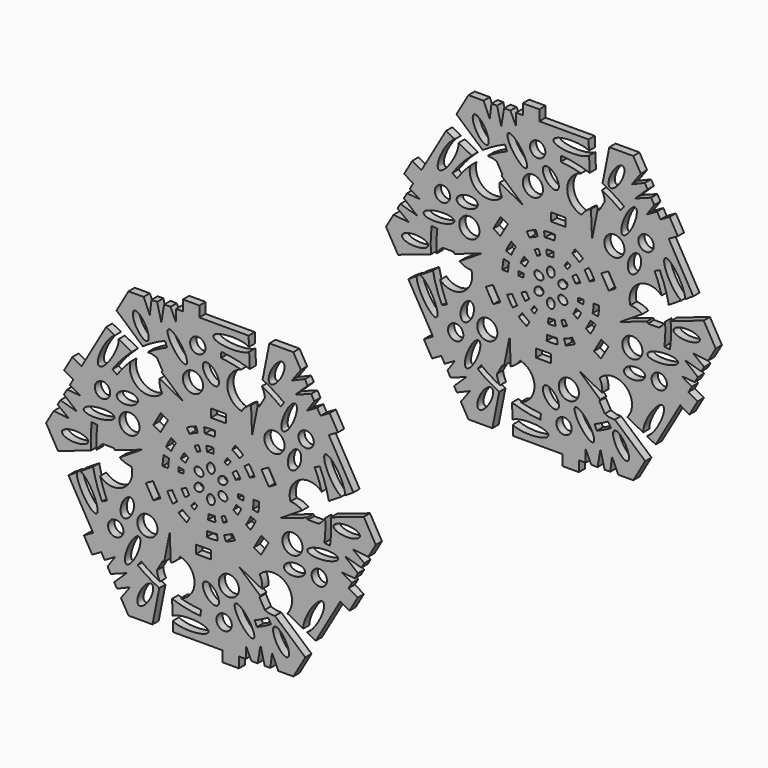
from build123d import *

# Parameters (mm, degrees)
F0_W      = 5.3208619356
F0_H      = 2.956032753
F1_DEPTH  = 2.794
F2_R      = 3.6109321867
F3_DEPTH  = 25.4
F5_DEPTH  = 25.4
F7_DEPTH  = 25.4
F8_R      = 2.7543769247
F9_DEPTH  = 25.4
F10_SCALE = 0.5


with BuildPart() as f1:
    # F0 (on Front) → F1 (new body)
    with BuildSketch(Plane.XZ):
        with BuildLine():
            Line((-21.9722185302, 0), (0, 0))
            Line((0, 0), (-10.9861092651, 19.0284994247))
            ThreePointArc((-10.9861092651, 19.0284994247), (-14.7571293586, 20.0353904368), (-17.4869534781, 22.8251005173))
            ThreePointArc((-17.4869534781, 22.8251005173), (-29.0071142769, 26.3226212701), (-19.3417309339, 33.5008606838))
            Line((-19.3417309339, 33.5008606838), (-29.5603442937, 51.2000182059))
            Line((-29.5603442937, 51.2000182059), (-46.409741044, 22.0160069575))
            Line((-46.409741044, 22.0160069575), (-49.6852455032, 23.9071203387))
            Line((-49.6852455032, 23.9071203387), (-52.6412801189, 18.7871181955))
            Line((-52.6412801189, 18.7871181955), (-49.3657756597, 16.8960048143))
            Line((-49.3657756597, 16.8960048143), (-59.1206885874, 0))
            Line((-59.1206885874, 0), (-38.6834618678, 0))
            Line((-38.6834618678, 0), (-34.8023260759, 0))
            ThreePointArc((-34.8023260759, 0), (-32.1514174695, -2.7003311517), (-28.5105936309, -3.7315956881))
            ThreePointArc((-28.5105936309, -3.7315956881), (-29.5603758279, -1.6204671144), (-31.2729741016, 0))
            Line((-31.2729741016, 0), (-21.9722185302, 0))
        make_face()
        Polygon((-17.9902433753, 16.5306739972), (-15.4302439168, 15.0526576207), (-18.0906748846, 10.4446560144), (-20.6506743431, 11.9226723909), align=None, mode=Mode.SUBTRACT)
        with BuildLine():
            Line((21.9722185302, 0), (0, 0))
            Line((0, 0), (10.9861092651, -19.0284994247))
            ThreePointArc((10.9861092651, -19.0284994247), (14.7571293586, -20.0353904368), (17.4869534781, -22.8251005173))
            ThreePointArc((17.4869534781, -22.8251005173), (29.0071142769, -26.3226212701), (19.3417309339, -33.5008606838))
            Line((19.3417309339, -33.5008606838), (29.5603442937, -51.2000182059))
            Line((29.5603442937, -51.2000182059), (46.409741044, -22.0160069575))
            Line((46.409741044, -22.0160069575), (49.6852455032, -23.9071203387))
            Line((49.6852455032, -23.9071203387), (52.6412801189, -18.7871181955))
            Line((52.6412801189, -18.7871181955), (49.3657756597, -16.8960048143))
            Line((49.3657756597, -16.8960048143), (59.1206885874, 0))
            Line((59.1206885874, 0), (38.6834618678, 0))
            Line((38.6834618678, 0), (34.8023260759, 0))
            ThreePointArc((34.8023260759, 0), (32.1514174695, 2.7003311517), (28.5105936309, 3.7315956881))
            ThreePointArc((28.5105936309, 3.7315956881), (29.5603758279, 1.6204671144), (31.2729741016, 0))
            Line((31.2729741016, 0), (21.9722185302, 0))
        make_face()
        Polygon((17.9902433753, -16.5306739972), (15.4302439168, -15.0526576207), (18.0906748846, -10.4446560144), (20.6506743431, -11.9226723909), align=None, mode=Mode.SUBTRACT)
        with BuildLine():
            Line((10.9861092651, -19.0284994247), (0, 0))
            Line((0, 0), (-10.9861092651, -19.0284994247))
            ThreePointArc((-10.9861092651, -19.0284994247), (-9.9725924137, -22.7977441299), (-11.0236401529, -26.5566962054))
            ThreePointArc((-11.0236401529, -26.5566962054), (-8.2925015757, -38.2822084894), (-19.3417309339, -33.5008606838))
            Line((-19.3417309339, -33.5008606838), (-29.5603442937, -51.2000182059))
            Line((-29.5603442937, -51.2000182059), (4.1384492069, -51.2000182059))
            Line((4.1384492069, -51.2000182059), (4.1384492069, -54.9822449684))
            Line((4.1384492069, -54.9822449684), (10.0505184382, -54.9822449684))
            Line((10.0505184382, -54.9822449684), (10.0505184382, -51.2000182059))
            Line((10.0505184382, -51.2000182059), (29.5603442937, -51.2000182059))
            Line((29.5603442937, -51.2000182059), (19.3417309339, -33.5008606838))
            Line((19.3417309339, -33.5008606838), (17.4011630379, -30.1396984925))
            ThreePointArc((17.4011630379, -30.1396984925), (18.4142641108, -26.4937787205), (17.4869534781, -22.8251005173))
            ThreePointArc((17.4869534781, -22.8251005173), (16.183553601, -24.7898028552), (15.6364870508, -27.0831900239))
            Line((15.6364870508, -27.0831900239), (10.9861092651, -19.0284994247))
        make_face()
        with Locations((-2.6604309678, -22.3673284054)):
            Rectangle(F0_W, F0_H, mode=Mode.SUBTRACT)
        with BuildLine():
            Line((10.9861092651, 19.0284994247), (0, 0))
            Line((0, 0), (21.9722185302, 0))
            ThreePointArc((21.9722185302, 0), (24.7297217724, 2.7623536931), (28.5105936309, 3.7315956881))
            ThreePointArc((28.5105936309, 3.7315956881), (37.2996158526, 11.9595872192), (38.6834618678, 0))
            Line((38.6834618678, 0), (59.1206885874, 0))
            Line((59.1206885874, 0), (42.2712918371, 29.1840112485))
            Line((42.2712918371, 29.1840112485), (45.5467962963, 31.0751246297))
            Line((45.5467962963, 31.0751246297), (42.5907616806, 36.1951267729))
            Line((42.5907616806, 36.1951267729), (39.3152572215, 34.3040133917))
            Line((39.3152572215, 34.3040133917), (29.5603442937, 51.2000182059))
            Line((29.5603442937, 51.2000182059), (19.3417309339, 33.5008606838))
            Line((19.3417309339, 33.5008606838), (17.4011630379, 30.1396984925))
            ThreePointArc((17.4011630379, 30.1396984925), (13.7371533588, 29.1941098721), (11.0236401529, 26.5566962054))
            ThreePointArc((11.0236401529, 26.5566962054), (13.3768222269, 26.4102699696), (15.6364870508, 27.0831900239))
            Line((15.6364870508, 27.0831900239), (10.9861092651, 19.0284994247))
        make_face()
        Polygon((23.3111053109, 7.3146707847), (20.7511058524, 5.8366544082), (18.0906748846, 10.4446560144), (20.6506743431, 11.9226723909), align=None, mode=Mode.SUBTRACT)
        with BuildLine():
            Line((-10.9861092651, 19.0284994247), (0, 0))
            Line((0, 0), (10.9861092651, 19.0284994247))
            ThreePointArc((10.9861092651, 19.0284994247), (9.9725924137, 22.7977441299), (11.0236401529, 26.5566962054))
            ThreePointArc((11.0236401529, 26.5566962054), (8.2925015757, 38.2822084894), (19.3417309339, 33.5008606838))
            Line((19.3417309339, 33.5008606838), (29.5603442937, 51.2000182059))
            Line((29.5603442937, 51.2000182059), (-4.1384492069, 51.2000182059))
            Line((-4.1384492069, 51.2000182059), (-4.1384492069, 54.9822449684))
            Line((-4.1384492069, 54.9822449684), (-10.0505184382, 54.9822449684))
            Line((-10.0505184382, 54.9822449684), (-10.0505184382, 51.2000182059))
            Line((-10.0505184382, 51.2000182059), (-29.5603442937, 51.2000182059))
            Line((-29.5603442937, 51.2000182059), (-19.3417309339, 33.5008606838))
            Line((-19.3417309339, 33.5008606838), (-17.4011630379, 30.1396984925))
            ThreePointArc((-17.4011630379, 30.1396984925), (-18.4142641108, 26.4937787205), (-17.4869534781, 22.8251005173))
            ThreePointArc((-17.4869534781, 22.8251005173), (-16.183553601, 24.7898028552), (-15.6364870508, 27.0831900239))
            Line((-15.6364870508, 27.0831900239), (-10.9861092651, 19.0284994247))
        make_face()
        with Locations((2.6604309678, 22.3673284054)):
            Rectangle(F0_W, F0_H, mode=Mode.SUBTRACT)
        with BuildLine():
            ThreePointArc((-17.4869534781, 22.8251005173), (-14.7571293586, 20.0353904368), (-10.9861092651, 19.0284994247))
            Line((-10.9861092651, 19.0284994247), (-15.6364870508, 27.0831900239))
            ThreePointArc((-15.6364870508, 27.0831900239), (-16.183553601, 24.7898028552), (-17.4869534781, 22.8251005173))
        make_face()
        with BuildLine():
            ThreePointArc((11.0236401529, 26.5566962054), (9.9725924137, 22.7977441299), (10.9861092651, 19.0284994247))
            Line((10.9861092651, 19.0284994247), (15.6364870508, 27.0831900239))
            ThreePointArc((15.6364870508, 27.0831900239), (13.3768222269, 26.4102699696), (11.0236401529, 26.5566962054))
        make_face()
        with BuildLine():
            ThreePointArc((-11.0236401529, -26.5566962054), (-9.9725924137, -22.7977441299), (-10.9861092651, -19.0284994247))
            Line((-10.9861092651, -19.0284994247), (-15.6364870508, -27.0831900239))
            ThreePointArc((-15.6364870508, -27.0831900239), (-13.3768222269, -26.4102699696), (-11.0236401529, -26.5566962054))
        make_face()
        with BuildLine():
            ThreePointArc((17.4869534781, -22.8251005173), (14.7571293586, -20.0353904368), (10.9861092651, -19.0284994247))
            Line((10.9861092651, -19.0284994247), (15.6364870508, -27.0831900239))
            ThreePointArc((15.6364870508, -27.0831900239), (16.183553601, -24.7898028552), (17.4869534781, -22.8251005173))
        make_face()
        with BuildLine():
            ThreePointArc((28.5105936309, 3.7315956881), (24.7297217724, 2.7623536931), (21.9722185302, 0))
            Line((21.9722185302, 0), (31.2729741016, 0))
            ThreePointArc((31.2729741016, 0), (29.5603758279, 1.6204671144), (28.5105936309, 3.7315956881))
        make_face()
        with BuildLine():
            ThreePointArc((-28.5105936309, -3.7315956881), (-24.7297217724, -2.7623536931), (-21.9722185302, 0))
            Line((-21.9722185302, 0), (-31.2729741016, 0))
            ThreePointArc((-31.2729741016, 0), (-29.5603758279, -1.6204671144), (-28.5105936309, -3.7315956881))
        make_face()
        with BuildLine():
            Line((-10.9861092651, -19.0284994247), (0, 0))
            Line((0, 0), (-21.9722185302, 0))
            ThreePointArc((-21.9722185302, 0), (-24.7297217724, -2.7623536931), (-28.5105936309, -3.7315956881))
            ThreePointArc((-28.5105936309, -3.7315956881), (-37.2996158526, -11.9595872192), (-38.6834618678, 0))
            Line((-38.6834618678, 0), (-59.1206885874, 0))
            Line((-59.1206885874, 0), (-42.2712918371, -29.1840112485))
            Line((-42.2712918371, -29.1840112485), (-45.5467962963, -31.0751246297))
            Line((-45.5467962963, -31.0751246297), (-42.5907616806, -36.1951267729))
            Line((-42.5907616806, -36.1951267729), (-39.3152572215, -34.3040133917))
            Line((-39.3152572215, -34.3040133917), (-29.5603442937, -51.2000182059))
            Line((-29.5603442937, -51.2000182059), (-19.3417309339, -33.5008606838))
            Line((-19.3417309339, -33.5008606838), (-17.4011630379, -30.1396984925))
            ThreePointArc((-17.4011630379, -30.1396984925), (-13.7371533588, -29.1941098721), (-11.0236401529, -26.5566962054))
            ThreePointArc((-11.0236401529, -26.5566962054), (-13.3768222269, -26.4102699696), (-15.6364870508, -27.0831900239))
            Line((-15.6364870508, -27.0831900239), (-10.9861092651, -19.0284994247))
        make_face()
        Polygon((-23.3111053109, -7.3146707847), (-20.7511058524, -5.8366544082), (-18.0906748846, -10.4446560144), (-20.6506743431, -11.9226723909), align=None, mode=Mode.SUBTRACT)
    extrude(amount=F1_DEPTH)

    # F2 (on face) → F3 (cut)
    with BuildSketch(Plane.XZ.offset(2.794)):
        with Locations((-22.7895863354, -20.593367517)):
            Circle(F2_R)
        with Locations((6.4395862515, -30.0330444667)):
            Circle(F2_R)
        with Locations((29.2291725869, -9.4396769497)):
            Circle(F2_R)
        with Locations((22.7895863354, 20.593367517)):
            Circle(F2_R)
        with Locations((-6.4395862515, 30.0330444667)):
            Circle(F2_R)
        with Locations((-29.2291725869, 9.4396769497)):
            Circle(F2_R)
    extrude(amount=-F3_DEPTH, mode=Mode.SUBTRACT)

    # F4 (on face) → F5 (cut)
    with BuildSketch(Plane.XZ.offset(2.794)):
        Polygon((-24.785451591, 2.7467869222), (-60.0905120373, -9.2294868082), (-55.8829978108, -16.9253777713), align=None)
        Polygon((-34.4135321479, -34.3040133917), (-42.5907616806, -39.0251390636), (-42.2712918371, -49.9183535576), (-34.8023260759, -49.9183535576), (-29.0216468275, -42.0778691769), (-38.6834618678, -46.1534336209), (-30.2300732583, -37.989269942), (-39.3152572215, -41.3837209344), align=None)
        Polygon((17.7846362119, -45.174646371), (16.1817250216, -54.7398719773), (12.501380975, -46.9549997699), (12.501380975, -56.3972511138), (22.0949163774, -61.5671893605), (25.829399258, -55.0988752713), (21.9296802306, -46.1724180007), (20.6283150537, -56.5775774943), align=None)
        Polygon((-22.0522859789, -56.6546533548), (-13.2836917869, -56.8587846295), (-14.7715130489, -20.091437261), align=None)
        Polygon((48.0147094702, -7.1853764289), (55.496982243, -13.3561510429), (46.9149131229, -12.6509863782), (55.0921426556, -17.3721120502), (64.3662082145, -11.6488358029), (60.6317253339, -5.1805217137), (50.951327058, -4.0945488238), (59.3117769215, -10.4241438733), align=None)
        Polygon((38.0382260584, -47.4251665466), (42.599306024, -39.9334068582), (10.0139385421, -22.8382241832), align=None)
        Polygon((30.2300732583, 37.989269942), (39.3152572215, 41.3837209344), (34.4135321479, 34.3040133917), (42.5907616806, 39.0251390636), (42.2712918371, 49.9183535576), (34.8023260759, 49.9183535576), (29.0216468275, 42.0778691769), (38.6834618678, 46.1534336209), align=None)
        Polygon((60.0905120373, 9.2294868082), (55.8829978108, 16.9253777713), (24.785451591, -2.7467869222), align=None)
        Polygon((-17.7846362119, 45.174646371), (-16.1817250216, 54.7398719773), (-12.501380975, 46.9549997699), (-12.501380975, 56.3972511138), (-22.0949163774, 61.5671893605), (-25.829399258, 55.0988752713), (-21.9296802306, 46.1724180007), (-20.6283150537, 56.5775774943), align=None)
        Polygon((22.0522859789, 56.6546533548), (13.2836917869, 56.8587846294), (14.7715130489, 20.091437261), align=None)
        Polygon((-48.0147094702, 7.1853764289), (-55.496982243, 13.3561510429), (-46.9149131229, 12.6509863782), (-55.0921426556, 17.3721120502), (-64.3662082145, 11.6488358029), (-60.6317253339, 5.1805217137), (-50.951327058, 4.0945488238), (-59.3117769215, 10.4241438733), align=None)
        Polygon((-38.0382260584, 47.4251665466), (-42.599306024, 39.9334068582), (-10.0139385421, 22.8382241832), align=None)
    extrude(amount=-F5_DEPTH, mode=Mode.SUBTRACT)

    # F6 (on face) → F7 (cut)
    with BuildSketch(Plane.XZ.offset(2.794)):
        with BuildLine():
            ThreePointArc((1.3919166344, -9.6971305855), (0.272650146, -9.792723595), (-0.8502013131, -9.7595558935))
            Line((-0.8502013131, -9.7595558935), (-1.014338905, -11.6437096546))
            ThreePointArc((-1.014338905, -11.6437096546), (0.325287254, -11.6832806239), (1.6606363375, -11.5692326837))
            Line((1.6606363375, -11.5692326837), (1.3919166344, -9.6971305855))
        make_face()
        with BuildLine():
            Line((3.7450427737, -9.0524266433), (4.4680507164, -10.8000639225))
            ThreePointArc((4.4680507164, -10.8000639225), (5.1671139136, -10.483596317), (5.8439040447, -10.12193872))
            Line((5.8439040447, -10.12193872), (4.8982592191, -8.4840338361))
            ThreePointArc((4.8982592191, -8.4840338361), (4.3309854457, -8.7871689741), (3.7450427737, -9.0524266433))
        make_face()
        with BuildLine():
            ThreePointArc((2.1763936696, -15.1623833624), (0.4263143618, -15.3118520989), (-1.3293703876, -15.2599912518))
            Line((-1.3293703876, -15.2599912518), (-1.502700169, -17.2496631845))
            ThreePointArc((-1.502700169, -17.2496631845), (0.4818993032, -17.3082859012), (2.4601624691, -17.1393287034))
            Line((2.4601624691, -17.1393287034), (2.1763936696, -15.1623833624))
        make_face()
        with BuildLine():
            Line((-25.0123391363, -32.5674832476), (-26.2553334233, -34.1859322618))
            ThreePointArc((-26.2553334233, -34.1859322618), (-15.6240561513, -40.173490851), (-3.740892787, -42.9421263905))
            Line((-3.740892787, -42.9421263905), (-3.5637894043, -40.9091368674))
            ThreePointArc((-3.5637894043, -40.9091368674), (-14.8843735801, -38.2715755788), (-25.0123391363, -32.5674832476))
        make_face()
        with BuildLine():
            Line((15.6980982616, -37.9450627239), (16.4782190791, -39.8307518603))
            ThreePointArc((16.4782190791, -39.8307518603), (19.0563716663, -38.6636159289), (21.5523809461, -37.3298188227))
            Line((21.5523809461, -37.3298188227), (20.5320363953, -35.5625302195))
            ThreePointArc((20.5320363953, -35.5625302195), (18.1541945456, -36.8331819771), (15.6980982616, -37.9450627239))
        make_face()
        with BuildLine():
            Line((4.7351581249, -14.567526769), (5.3525510881, -16.4669118121))
            ThreePointArc((5.3525510881, -16.4669118121), (7.0435662262, -15.8176219008), (8.6574965749, -14.9952239341))
            Line((8.6574965749, -14.9952239341), (7.6588928481, -13.2655915426))
            ThreePointArc((7.6588928481, -13.2655915426), (6.2311221873, -13.9931295613), (4.7351581249, -14.567526769))
        make_face()
        with BuildLine():
            ThreePointArc((15.3177856962, 0), (15.2339667722, -1.6002546723), (14.9834273147, -3.1829961574))
            Line((14.9834273147, -3.1829961574), (16.9370394952, -3.5980106887))
            ThreePointArc((16.9370394952, -3.5980106887), (17.2202455066, -1.8089036653), (17.3149931498, 0))
            Line((17.3149931498, 0), (15.3177856962, 0))
        make_face()
        with BuildLine():
            ThreePointArc((14.2192060086, -5.6963794747), (13.4736100775, -7.2867269821), (12.5508548918, -8.7812641526))
            Line((12.5508548918, -8.7812641526), (14.18729644, -9.9262081129))
            ThreePointArc((14.18729644, -9.9262081129), (15.2303649381, -8.236805912), (16.0731752955, -6.439101156))
            Line((16.0731752955, -6.439101156), (14.2192060086, -5.6963794747))
        make_face()
        with BuildLine():
            Line((40.7104373979, -5.3775794763), (42.7335525024, -5.6448195985))
            ThreePointArc((42.7335525024, -5.6448195985), (42.6032917114, 6.5559158883), (39.0594187402, 18.2313550088))
            Line((39.0594187402, 18.2313550088), (37.2102464762, 17.3682362758))
            ThreePointArc((37.2102464762, 17.3682362758), (40.5863434841, 6.2455421496), (40.7104373979, -5.3775794763))
        make_face()
        with BuildLine():
            ThreePointArc((9.5765789027, -6.7002980871), (10.2806614468, -5.5599332865), (10.8495675751, -4.3464630871))
            Line((10.8495675751, -4.3464630871), (9.0939197481, -3.6431301274))
            ThreePointArc((9.0939197481, -3.6431301274), (8.6170724785, -4.6602398448), (8.0269226768, -5.6160738822))
            Line((8.0269226768, -5.6160738822), (9.5765789027, -6.7002980871))
        make_face()
        with BuildLine():
            ThreePointArc((11.5871550776, -1.5305865355), (11.6626176904, -0.7669462451), (11.6878080894, 0))
            Line((11.6878080894, 0), (9.7965184382, 0))
            ThreePointArc((9.7965184382, 0), (9.7754042818, -0.6428410677), (9.7121528259, -1.2829111414))
            Line((9.7121528259, -1.2829111414), (11.5871550776, -1.5305865355))
        make_face()
        with BuildLine():
            ThreePointArc((7.6588928481, 13.2655915426), (9.0028445849, 12.392874889), (10.2482691898, 11.3845306116))
            Line((10.2482691898, 11.3845306116), (11.5844884071, 12.8689011234))
            ThreePointArc((11.5844884071, 12.8689011234), (10.1766792804, 14.0087182355), (8.6574965749, 14.9952239341))
            Line((8.6574965749, 14.9952239341), (7.6588928481, 13.2655915426))
        make_face()
        with BuildLine():
            ThreePointArc((12.042812339, 9.4660038877), (13.0472957157, 8.0251251168), (13.8802252794, 6.4787270992))
            Line((13.8802252794, 6.4787270992), (15.689996609, 7.3234550716))
            ThreePointArc((15.689996609, 7.3234550716), (14.7484656348, 9.0714799893), (13.6130128264, 10.7002275474))
            Line((13.6130128264, 10.7002275474), (12.042812339, 9.4660038877))
        make_face()
        with BuildLine():
            Line((25.0123391363, 32.5674832476), (26.2553334233, 34.1859322618))
            ThreePointArc((26.2553334233, 34.1859322618), (15.6240561513, 40.173490851), (3.740892787, 42.9421263905))
            Line((3.740892787, 42.9421263905), (3.5637894043, 40.9091368674))
            ThreePointArc((3.5637894043, 40.9091368674), (14.8843735801, 38.2715755788), (25.0123391363, 32.5674832476))
        make_face()
        with BuildLine():
            ThreePointArc((10.5909178077, 4.9434115675), (9.9553741929, 6.1233473374), (9.1889312376, 7.2227695966))
            Line((9.1889312376, 7.2227695966), (7.7020031137, 6.0540004581))
            ThreePointArc((7.7020031137, 6.0540004581), (8.3444223325, 5.1324837502), (8.87712399, 4.1434820112))
            Line((8.87712399, 4.1434820112), (10.5909178077, 4.9434115675))
        make_face()
        with BuildLine():
            ThreePointArc((7.1191043612, 9.2694773871), (6.4955037768, 9.716650072), (5.8439040447, 10.12193872))
            Line((5.8439040447, 10.12193872), (4.8982592191, 8.4840338361))
            ThreePointArc((4.8982592191, 8.4840338361), (5.4444188361, 8.1443279064), (5.9671100522, 7.769515502))
            Line((5.9671100522, 7.769515502), (7.1191043612, 9.2694773871))
        make_face()
        with BuildLine():
            ThreePointArc((-7.6588928481, 13.2655915426), (-6.2311221873, 13.9931295613), (-4.7351581249, 14.567526769))
            Line((-4.7351581249, 14.567526769), (-5.3525510881, 16.4669118121))
            ThreePointArc((-5.3525510881, 16.4669118121), (-7.0435662262, 15.8176219008), (-8.6574965749, 14.9952239341))
            Line((-8.6574965749, 14.9952239341), (-7.6588928481, 13.2655915426))
        make_face()
        with BuildLine():
            ThreePointArc((-2.1763936696, 15.1623833624), (-0.4263143618, 15.3118520989), (1.3293703876, 15.2599912518))
            Line((1.3293703876, 15.2599912518), (1.502700169, 17.2496631845))
            ThreePointArc((1.502700169, 17.2496631845), (-0.4818993032, 17.3082859012), (-2.4601624691, 17.1393287034))
            Line((-2.4601624691, 17.1393287034), (-2.1763936696, 15.1623833624))
        make_face()
        with BuildLine():
            Line((-15.6980982616, 37.9450627239), (-16.4782190791, 39.8307518603))
            ThreePointArc((-16.4782190791, 39.8307518603), (-26.97923556, 33.6175749627), (-35.3185259532, 24.7107713816))
            Line((-35.3185259532, 24.7107713816), (-33.6464570719, 23.5409005916))
            ThreePointArc((-33.6464570719, 23.5409005916), (-25.701969904, 32.0260334292), (-15.6980982616, 37.9450627239))
        make_face()
        with BuildLine():
            ThreePointArc((1.014338905, 11.6437096546), (-0.325287254, 11.6832806239), (-1.6606363375, 11.5692326837))
            Line((-1.6606363375, 11.5692326837), (-1.3919166344, 9.6971305855))
            ThreePointArc((-1.3919166344, 9.6971305855), (-0.272650146, 9.792723595), (0.8502013131, 9.7595558935))
            Line((0.8502013131, 9.7595558935), (1.014338905, 11.6437096546))
        make_face()
        with BuildLine():
            ThreePointArc((-4.4680507164, 10.8000639225), (-5.1671139136, 10.483596317), (-5.8439040447, 10.12193872))
            Line((-5.8439040447, 10.12193872), (-4.8982592191, 8.4840338361))
            ThreePointArc((-4.8982592191, 8.4840338361), (-4.3309854457, 8.7871689741), (-3.7450427737, 9.0524266433))
            Line((-3.7450427737, 9.0524266433), (-4.4680507164, 10.8000639225))
        make_face()
        with BuildLine():
            ThreePointArc((-15.3177856962, 0), (-15.2339667722, 1.6002546723), (-14.9834273147, 3.1829961574))
            Line((-14.9834273147, 3.1829961574), (-16.9370394952, 3.5980106887))
            ThreePointArc((-16.9370394952, 3.5980106887), (-17.2202455066, 1.8089036653), (-17.3149931498, 0))
            Line((-17.3149931498, 0), (-15.3177856962, 0))
        make_face()
        with BuildLine():
            ThreePointArc((-14.2192060086, 5.6963794747), (-13.4736100775, 7.2867269821), (-12.5508548918, 8.7812641526))
            Line((-12.5508548918, 8.7812641526), (-14.18729644, 9.9262081129))
            ThreePointArc((-14.18729644, 9.9262081129), (-15.2303649381, 8.236805912), (-16.0731752955, 6.439101156))
            Line((-16.0731752955, 6.439101156), (-14.2192060086, 5.6963794747))
        make_face()
        with BuildLine():
            Line((-40.7104373979, 5.3775794763), (-42.7335525024, 5.6448195985))
            ThreePointArc((-42.7335525024, 5.6448195985), (-42.6032917114, -6.5559158883), (-39.0594187402, -18.2313550088))
            Line((-39.0594187402, -18.2313550088), (-37.2102464762, -17.3682362758))
            ThreePointArc((-37.2102464762, -17.3682362758), (-40.5863434841, -6.2455421496), (-40.7104373979, 5.3775794763))
        make_face()
        with BuildLine():
            ThreePointArc((-9.5765789027, 6.7002980871), (-10.2806614468, 5.5599332865), (-10.8495675751, 4.3464630871))
            Line((-10.8495675751, 4.3464630871), (-9.0939197481, 3.6431301274))
            ThreePointArc((-9.0939197481, 3.6431301274), (-8.6170724785, 4.6602398448), (-8.0269226768, 5.6160738822))
            Line((-8.0269226768, 5.6160738822), (-9.5765789027, 6.7002980871))
        make_face()
        with BuildLine():
            ThreePointArc((-11.5871550776, 1.5305865355), (-11.6626176904, 0.7669462451), (-11.6878080894, 0))
            Line((-11.6878080894, 0), (-9.7965184382, 0))
            ThreePointArc((-9.7965184382, 0), (-9.7754042818, 0.6428410677), (-9.7121528259, 1.2829111414))
            Line((-9.7121528259, 1.2829111414), (-11.5871550776, 1.5305865355))
        make_face()
        with BuildLine():
            ThreePointArc((-7.6588928481, -13.2655915426), (-9.0028445849, -12.392874889), (-10.2482691898, -11.3845306116))
            Line((-10.2482691898, -11.3845306116), (-11.5844884071, -12.8689011234))
            ThreePointArc((-11.5844884071, -12.8689011234), (-10.1766792804, -14.0087182355), (-8.6574965749, -14.9952239341))
            Line((-8.6574965749, -14.9952239341), (-7.6588928481, -13.2655915426))
        make_face()
        with BuildLine():
            ThreePointArc((-12.042812339, -9.4660038877), (-13.0472957157, -8.0251251168), (-13.8802252794, -6.4787270992))
            Line((-13.8802252794, -6.4787270992), (-15.689996609, -7.3234550716))
            ThreePointArc((-15.689996609, -7.3234550716), (-14.7484656348, -9.0714799893), (-13.6130128264, -10.7002275474))
            Line((-13.6130128264, -10.7002275474), (-12.042812339, -9.4660038877))
        make_face()
        with BuildLine():
            ThreePointArc((-10.5909178077, -4.9434115675), (-9.9553741929, -6.1233473374), (-9.1889312376, -7.2227695966))
            Line((-9.1889312376, -7.2227695966), (-7.7020031137, -6.0540004581))
            ThreePointArc((-7.7020031137, -6.0540004581), (-8.3444223325, -5.1324837502), (-8.87712399, -4.1434820112))
            Line((-8.87712399, -4.1434820112), (-10.5909178077, -4.9434115675))
        make_face()
        with BuildLine():
            ThreePointArc((-7.1191043612, -9.2694773871), (-6.4955037768, -9.716650072), (-5.8439040447, -10.12193872))
            Line((-5.8439040447, -10.12193872), (-4.8982592191, -8.4840338361))
            ThreePointArc((-4.8982592191, -8.4840338361), (-5.4444188361, -8.1443279064), (-5.9671100522, -7.769515502))
            Line((-5.9671100522, -7.769515502), (-7.1191043612, -9.2694773871))
        make_face()
    extrude(amount=-F7_DEPTH, mode=Mode.SUBTRACT)

    # F8 (on face) → F9 (cut)
    with BuildSketch(Plane.XZ.offset(2.794)):
        with Locations((4.7317738645, -42.1558059752)):
            Circle(F8_R)
        with BuildLine():
            add(Edge.make_bspline(
                [(2.3658883292, -37.6391150057), (5.2188306397, -35.3975168773), (0.2435269906, -32.0016212467), (-4.7317766584, -28.6057256162), (-2.6094153199, -34.2432193752), (-0.4870539813, -39.8807131342), (2.3658883292, -37.6391150057)],
                knots=[0, 0, 0, 2.0943951024, 2.0943951024, 4.1887902048, 4.1887902048, 6.2831853072, 6.2831853072, 6.2831853072], degree=2, weights=[1, 0.5, 1, 0.5, 1, 0.5, 1]))
        make_face()
        with BuildLine():
            add(Edge.make_bspline(
                [(15.2707267553, -43.8764542341), (17.6991459758, -42.1418686474), (11.6456194238, -36.2341193986), (5.5920928717, -30.3263701499), (9.2172002032, -37.9687049854), (12.8423075347, -45.6110398209), (15.2707267553, -43.8764542341)],
                knots=[0, 0, 0, 2.0943951024, 2.0943951024, 4.1887902048, 4.1887902048, 6.2831853072, 6.2831853072, 6.2831853072], degree=2, weights=[1, 0.5, 1, 0.5, 1, 0.5, 1]))
        make_face()
        with BuildLine():
            add(Edge.make_bspline(
                [(-0.8603224996, -46.8875803053), (-0.8603224996, -43.4672173518), (-10.8615719946, -45.1773988286), (-20.8628214896, -46.8875803053), (-10.8615719946, -48.5977617821), (-0.8603224996, -50.3079432589), (-0.8603224996, -46.8875803053)],
                knots=[0, 0, 0, 2.0943951024, 2.0943951024, 4.1887902048, 4.1887902048, 6.2831853072, 6.2831853072, 6.2831853072], degree=2, weights=[1, 0.5, 1, 0.5, 1, 0.5, 1]))
        make_face()
        with BuildLine():
            add(Edge.make_bspline(
                [(27.530323714, -45.8121784031), (30.291643798, -44.2135218581), (25.3621558024, -38.8830469947), (20.4326678067, -33.5525721312), (22.6008357184, -40.4817035396), (24.7690036301, -47.4108349481), (27.530323714, -45.8121784031)],
                knots=[0, 0, 0, 2.0943951024, 2.0943951024, 4.1887902048, 4.1887902048, 6.2831853072, 6.2831853072, 6.2831853072], degree=2, weights=[1, 0.5, 1, 0.5, 1, 0.5, 1]))
        make_face()
        with BuildLine():
            add(Edge.make_bspline(
                [(0, -6.6675003618), (2.4111368561, -6.6675003618), (1.2055684281, -4.0865321644), (0, -1.5055639669), (-1.2055684281, -4.0865321644), (-2.4111368561, -6.6675003618), (0, -6.6675003618)],
                knots=[0, 0, 0, 2.0943951024, 2.0943951024, 4.1887902048, 4.1887902048, 6.2831853072, 6.2831853072, 6.2831853072], degree=2, weights=[1, 0.5, 1, 0.5, 1, 0.5, 1]))
        make_face()
        with BuildLine():
            add(Edge.make_bspline(
                [(40.1756744166, -24.1888512928), (37.2135532086, -22.478669816), (33.6939890651, -31.9950966866), (30.1744249216, -41.5115235573), (36.6561102731, -33.7052781634), (43.1377956245, -25.8990327696), (40.1756744166, -24.1888512928)],
                knots=[0, 0, 0, 2.0943951024, 2.0943951024, 4.1887902048, 4.1887902048, 6.2831853072, 6.2831853072, 6.2831853072], degree=2, weights=[1, 0.5, 1, 0.5, 1, 0.5, 1]))
        make_face()
        with BuildLine():
            add(Edge.make_bspline(
                [(33.7793739355, -16.7706381072), (33.2645641665, -13.1791185266), (27.8359804573, -15.789910063), (22.4073967481, -18.4007015994), (28.3507902264, -19.3814296436), (34.2941837046, -20.3621576879), (33.7793739355, -16.7706381072)],
                knots=[0, 0, 0, 2.0943951024, 2.0943951024, 4.1887902048, 4.1887902048, 6.2831853072, 6.2831853072, 6.2831853072], degree=2, weights=[1, 0.5, 1, 0.5, 1, 0.5, 1]))
        make_face()
        with Locations((38.8738858238, -16.980066616)):
            Circle(F8_R)
        with BuildLine():
            add(Edge.make_bspline(
                [(53.4396721568, 0.9358705092), (53.4358550189, 4.1265721224), (46.3547843751, 2.5227477223), (39.2737137313, 0.9189233222), (46.358601513, -0.6679538909), (53.4434892947, -2.254831104), (53.4396721568, 0.9358705092)],
                knots=[0, 0, 0, 2.0943951024, 2.0943951024, 4.1887902048, 4.1887902048, 6.2831853072, 6.2831853072, 6.2831853072], degree=2, weights=[1, 0.5, 1, 0.5, 1, 0.5, 1]))
        make_face()
        with BuildLine():
            add(Edge.make_bspline(
                [(45.6334873724, -8.7133898128), (45.3455017995, -5.7430242833), (37.2024775948, -8.0316574355), (29.0594533902, -10.3202905877), (37.4904631677, -11.002022965), (45.9214729452, -11.6837553422), (45.6334873724, -8.7133898128)],
                knots=[0, 0, 0, 2.0943951024, 2.0943951024, 4.1887902048, 4.1887902048, 6.2831853072, 6.2831853072, 6.2831853072], degree=2, weights=[1, 0.5, 1, 0.5, 1, 0.5, 1]))
        make_face()
        with BuildLine():
            add(Edge.make_bspline(
                [(5.7742246931, -3.3337501809), (6.9797931211, -1.2456444115), (4.1418248817, -0.9992131975), (1.3038566424, -0.7527819835), (2.9362564537, -3.0873189669), (4.568656265, -5.4218559503), (5.7742246931, -3.3337501809)],
                knots=[0, 0, 0, 2.0943951024, 2.0943951024, 4.1887902048, 4.1887902048, 6.2831853072, 6.2831853072, 6.2831853072], degree=2, weights=[1, 0.5, 1, 0.5, 1, 0.5, 1]))
        make_face()
        with BuildLine():
            add(Edge.make_bspline(
                [(41.0359969162, 22.6987290125), (38.0738757083, 20.9885475358), (44.5555610597, 13.1823021419), (51.0372464112, 5.3760567481), (47.5176822677, 14.8924836187), (43.9981181242, 24.4089104893), (41.0359969162, 22.6987290125)],
                knots=[0, 0, 0, 2.0943951024, 2.0943951024, 4.1887902048, 4.1887902048, 6.2831853072, 6.2831853072, 6.2831853072], degree=2, weights=[1, 0.5, 1, 0.5, 1, 0.5, 1]))
        make_face()
        with BuildLine():
            add(Edge.make_bspline(
                [(31.4134856063, 20.8684768985), (28.0457335267, 22.2183983507), (27.5924534666, 16.2117111838), (27.1391734066, 10.2050240169), (30.9602055462, 14.8617897316), (34.7812376859, 19.5185554463), (31.4134856063, 20.8684768985)],
                knots=[0, 0, 0, 2.0943951024, 2.0943951024, 4.1887902048, 4.1887902048, 6.2831853072, 6.2831853072, 6.2831853072], degree=2, weights=[1, 0.5, 1, 0.5, 1, 0.5, 1]))
        make_face()
        with Locations((34.1421119593, 25.1757393592)):
            Circle(F8_R)
        with BuildLine():
            add(Edge.make_bspline(
                [(25.9093484428, 46.7480489123), (23.1442112209, 48.3400939805), (20.9926285727, 41.4057947169), (18.8410459245, 34.4714954533), (23.7577657946, 39.8137496487), (28.6744856647, 45.1560038441), (25.9093484428, 46.7480489123)],
                knots=[0, 0, 0, 2.0943951024, 2.0943951024, 4.1887902048, 4.1887902048, 6.2831853072, 6.2831853072, 6.2831853072], degree=2, weights=[1, 0.5, 1, 0.5, 1, 0.5, 1]))
        make_face()
        with BuildLine():
            add(Edge.make_bspline(
                [(30.3627606171, 35.1630644214), (27.6463558237, 36.3988443641), (25.5568581711, 28.2024619631), (23.4673605185, 20.0060795621), (28.2732629645, 26.9666820204), (33.0791654106, 33.9272844787), (30.3627606171, 35.1630644214)],
                knots=[0, 0, 0, 2.0943951024, 2.0943951024, 4.1887902048, 4.1887902048, 6.2831853072, 6.2831853072, 6.2831853072], degree=2, weights=[1, 0.5, 1, 0.5, 1, 0.5, 1]))
        make_face()
        with BuildLine():
            add(Edge.make_bspline(
                [(5.7742246931, 3.3337501809), (4.568656265, 5.4218559503), (2.9362564537, 3.0873189669), (1.3038566424, 0.7527819835), (4.1418248817, 0.9992131975), (6.9797931211, 1.2456444115), (5.7742246931, 3.3337501809)],
                knots=[0, 0, 0, 2.0943951024, 2.0943951024, 4.1887902048, 4.1887902048, 6.2831853072, 6.2831853072, 6.2831853072], degree=2, weights=[1, 0.5, 1, 0.5, 1, 0.5, 1]))
        make_face()
        with BuildLine():
            add(Edge.make_bspline(
                [(0.8603224996, 46.8875803053), (0.8603224996, 43.4672173518), (10.8615719946, 45.1773988286), (20.8628214896, 46.8875803053), (10.8615719946, 48.5977617821), (0.8603224996, 50.3079432589), (0.8603224996, 46.8875803053)],
                knots=[0, 0, 0, 2.0943951024, 2.0943951024, 4.1887902048, 4.1887902048, 6.2831853072, 6.2831853072, 6.2831853072], degree=2, weights=[1, 0.5, 1, 0.5, 1, 0.5, 1]))
        make_face()
        with BuildLine():
            add(Edge.make_bspline(
                [(-2.3658883292, 37.6391150057), (-5.2188306397, 35.3975168773), (-0.2435269906, 32.0016212467), (4.7317766584, 28.6057256162), (2.6094153199, 34.2432193752), (0.4870539813, 39.8807131342), (-2.3658883292, 37.6391150057)],
                knots=[0, 0, 0, 2.0943951024, 2.0943951024, 4.1887902048, 4.1887902048, 6.2831853072, 6.2831853072, 6.2831853072], degree=2, weights=[1, 0.5, 1, 0.5, 1, 0.5, 1]))
        make_face()
        with Locations((-4.7317738645, 42.1558059752)):
            Circle(F8_R)
        with BuildLine():
            add(Edge.make_bspline(
                [(-27.530323714, 45.8121784031), (-30.291643798, 44.2135218581), (-25.3621558024, 38.8830469947), (-20.4326678067, 33.5525721312), (-22.6008357184, 40.4817035396), (-24.7690036301, 47.4108349481), (-27.530323714, 45.8121784031)],
                knots=[0, 0, 0, 2.0943951024, 2.0943951024, 4.1887902048, 4.1887902048, 6.2831853072, 6.2831853072, 6.2831853072], degree=2, weights=[1, 0.5, 1, 0.5, 1, 0.5, 1]))
        make_face()
        with BuildLine():
            add(Edge.make_bspline(
                [(-15.2707267553, 43.8764542341), (-17.6991459758, 42.1418686474), (-11.6456194238, 36.2341193986), (-5.5920928717, 30.3263701499), (-9.2172002032, 37.9687049854), (-12.8423075347, 45.6110398209), (-15.2707267553, 43.8764542341)],
                knots=[0, 0, 0, 2.0943951024, 2.0943951024, 4.1887902048, 4.1887902048, 6.2831853072, 6.2831853072, 6.2831853072], degree=2, weights=[1, 0.5, 1, 0.5, 1, 0.5, 1]))
        make_face()
        with BuildLine():
            add(Edge.make_bspline(
                [(0, 6.6675003618), (-2.4111368561, 6.6675003618), (-1.2055684281, 4.0865321644), (0, 1.5055639669), (1.2055684281, 4.0865321644), (2.4111368561, 6.6675003618), (0, 6.6675003618)],
                knots=[0, 0, 0, 2.0943951024, 2.0943951024, 4.1887902048, 4.1887902048, 6.2831853072, 6.2831853072, 6.2831853072], degree=2, weights=[1, 0.5, 1, 0.5, 1, 0.5, 1]))
        make_face()
        with BuildLine():
            add(Edge.make_bspline(
                [(-40.1756744166, 24.1888512928), (-37.2135532086, 22.478669816), (-33.6939890651, 31.9950966866), (-30.1744249216, 41.5115235573), (-36.6561102731, 33.7052781634), (-43.1377956245, 25.8990327696), (-40.1756744166, 24.1888512928)],
                knots=[0, 0, 0, 2.0943951024, 2.0943951024, 4.1887902048, 4.1887902048, 6.2831853072, 6.2831853072, 6.2831853072], degree=2, weights=[1, 0.5, 1, 0.5, 1, 0.5, 1]))
        make_face()
        with BuildLine():
            add(Edge.make_bspline(
                [(-33.7793739355, 16.7706381072), (-33.2645641665, 13.1791185266), (-27.8359804573, 15.789910063), (-22.4073967481, 18.4007015994), (-28.3507902264, 19.3814296436), (-34.2941837046, 20.3621576879), (-33.7793739355, 16.7706381072)],
                knots=[0, 0, 0, 2.0943951024, 2.0943951024, 4.1887902048, 4.1887902048, 6.2831853072, 6.2831853072, 6.2831853072], degree=2, weights=[1, 0.5, 1, 0.5, 1, 0.5, 1]))
        make_face()
        with Locations((-38.8738858238, 16.980066616)):
            Circle(F8_R)
        with BuildLine():
            add(Edge.make_bspline(
                [(-53.4396721568, -0.9358705092), (-53.4358550189, -4.1265721224), (-46.3547843751, -2.5227477223), (-39.2737137313, -0.9189233222), (-46.358601513, 0.6679538909), (-53.4434892947, 2.254831104), (-53.4396721568, -0.9358705092)],
                knots=[0, 0, 0, 2.0943951024, 2.0943951024, 4.1887902048, 4.1887902048, 6.2831853072, 6.2831853072, 6.2831853072], degree=2, weights=[1, 0.5, 1, 0.5, 1, 0.5, 1]))
        make_face()
        with BuildLine():
            add(Edge.make_bspline(
                [(-45.6334873724, 8.7133898128), (-45.3455017995, 5.7430242833), (-37.2024775948, 8.0316574355), (-29.0594533902, 10.3202905877), (-37.4904631677, 11.002022965), (-45.9214729452, 11.6837553422), (-45.6334873724, 8.7133898128)],
                knots=[0, 0, 0, 2.0943951024, 2.0943951024, 4.1887902048, 4.1887902048, 6.2831853072, 6.2831853072, 6.2831853072], degree=2, weights=[1, 0.5, 1, 0.5, 1, 0.5, 1]))
        make_face()
        with BuildLine():
            add(Edge.make_bspline(
                [(-5.7742246931, 3.3337501809), (-6.9797931211, 1.2456444115), (-4.1418248817, 0.9992131975), (-1.3038566424, 0.7527819835), (-2.9362564537, 3.0873189669), (-4.568656265, 5.4218559503), (-5.7742246931, 3.3337501809)],
                knots=[0, 0, 0, 2.0943951024, 2.0943951024, 4.1887902048, 4.1887902048, 6.2831853072, 6.2831853072, 6.2831853072], degree=2, weights=[1, 0.5, 1, 0.5, 1, 0.5, 1]))
        make_face()
        with BuildLine():
            add(Edge.make_bspline(
                [(-41.0359969162, -22.6987290125), (-38.0738757083, -20.9885475358), (-44.5555610597, -13.1823021419), (-51.0372464112, -5.3760567481), (-47.5176822677, -14.8924836187), (-43.9981181242, -24.4089104893), (-41.0359969162, -22.6987290125)],
                knots=[0, 0, 0, 2.0943951024, 2.0943951024, 4.1887902048, 4.1887902048, 6.2831853072, 6.2831853072, 6.2831853072], degree=2, weights=[1, 0.5, 1, 0.5, 1, 0.5, 1]))
        make_face()
        with BuildLine():
            add(Edge.make_bspline(
                [(-31.4134856063, -20.8684768985), (-28.0457335267, -22.2183983507), (-27.5924534666, -16.2117111838), (-27.1391734066, -10.2050240169), (-30.9602055462, -14.8617897316), (-34.7812376859, -19.5185554463), (-31.4134856063, -20.8684768985)],
                knots=[0, 0, 0, 2.0943951024, 2.0943951024, 4.1887902048, 4.1887902048, 6.2831853072, 6.2831853072, 6.2831853072], degree=2, weights=[1, 0.5, 1, 0.5, 1, 0.5, 1]))
        make_face()
        with Locations((-34.1421119593, -25.1757393592)):
            Circle(F8_R)
        with BuildLine():
            add(Edge.make_bspline(
                [(-25.9093484428, -46.7480489123), (-23.1442112209, -48.3400939805), (-20.9926285727, -41.4057947169), (-18.8410459245, -34.4714954533), (-23.7577657946, -39.8137496487), (-28.6744856647, -45.1560038441), (-25.9093484428, -46.7480489123)],
                knots=[0, 0, 0, 2.0943951024, 2.0943951024, 4.1887902048, 4.1887902048, 6.2831853072, 6.2831853072, 6.2831853072], degree=2, weights=[1, 0.5, 1, 0.5, 1, 0.5, 1]))
        make_face()
        with BuildLine():
            add(Edge.make_bspline(
                [(-30.3627606171, -35.1630644214), (-27.6463558237, -36.3988443641), (-25.5568581711, -28.2024619631), (-23.4673605185, -20.0060795621), (-28.2732629645, -26.9666820204), (-33.0791654106, -33.9272844787), (-30.3627606171, -35.1630644214)],
                knots=[0, 0, 0, 2.0943951024, 2.0943951024, 4.1887902048, 4.1887902048, 6.2831853072, 6.2831853072, 6.2831853072], degree=2, weights=[1, 0.5, 1, 0.5, 1, 0.5, 1]))
        make_face()
        with BuildLine():
            add(Edge.make_bspline(
                [(-5.7742246931, -3.3337501809), (-4.568656265, -5.4218559503), (-2.9362564537, -3.0873189669), (-1.3038566424, -0.7527819835), (-4.1418248817, -0.9992131975), (-6.9797931211, -1.2456444115), (-5.7742246931, -3.3337501809)],
                knots=[0, 0, 0, 2.0943951024, 2.0943951024, 4.1887902048, 4.1887902048, 6.2831853072, 6.2831853072, 6.2831853072], degree=2, weights=[1, 0.5, 1, 0.5, 1, 0.5, 1]))
        make_face()
    extrude(amount=-F9_DEPTH, mode=Mode.SUBTRACT)


with BuildPart() as f1_1:
    # F10: moved
    add(f1.part.scale(F10_SCALE).moved(Location((0, -1.397, 0))))


with BuildPart() as f11_1:
    # F11: copy of F1
    add(f1_1.part.moved(Location((0, 76.2, 0))))


solid = Compound([f1_1.part, f11_1.part])
